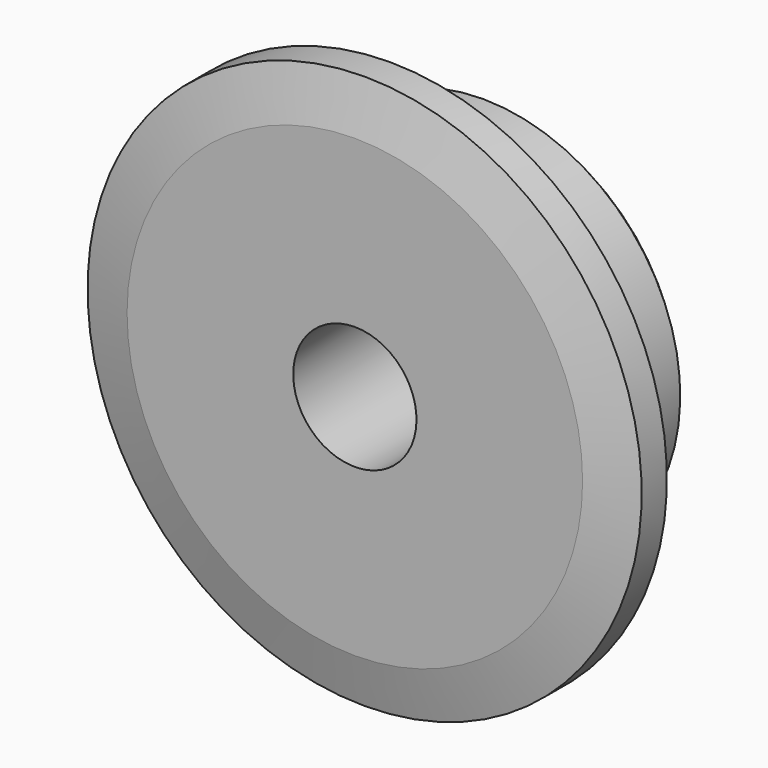
from build123d import *

# Parameters (mm, degrees)
F0_W     = 7.2136
F0_H     = 10.287
F0_H_2   = 17.4625
F0_W_2   = 15.0114
F2_R     = 1.5875
F3_SIZE  = 1.5875
F4_SIZE2 = 6.35
F4_SIZE  = 1.5748


with BuildPart() as f1:
    # F0 (on Right) → F1 (revolve)
    with BuildSketch(Plane.YZ):
        with Locations((3.6068, 30.5435)):
            Rectangle(F0_W, F0_H)
        with Locations((3.6068, 16.66875)):
            Rectangle(F0_W, F0_H_2)
        with Locations((14.7193, 16.66875)):
            Rectangle(F0_W_2, F0_H_2)
    revolve(axis=Axis((0, 11.1125, 0), (0, 1, 0)))

    # F2
    f2_edges = [f1.edges().sort_by_distance(p)[0] for p in [
        (0, 7.2136, -25.4),
    ]]
    fillet(f2_edges, radius=F2_R)

    # F3
    f3_edges = [f1.edges().sort_by_distance(p)[0] for p in [
        (0, 22.225, -25.4),
    ]]
    chamfer(f3_edges, length=F3_SIZE)

    # F4
    f4_edges = [f1.edges().sort_by_distance(p)[0] for p in [
        (0, 7.2136, -35.687),
        (0, 0, -35.687),
    ]]
    f4_side = f1.faces().sort_by_distance((0, 3.6068, -35.687))[0]
    chamfer(f4_edges, length=F4_SIZE, length2=F4_SIZE2, reference=f4_side)


solid = f1.part
